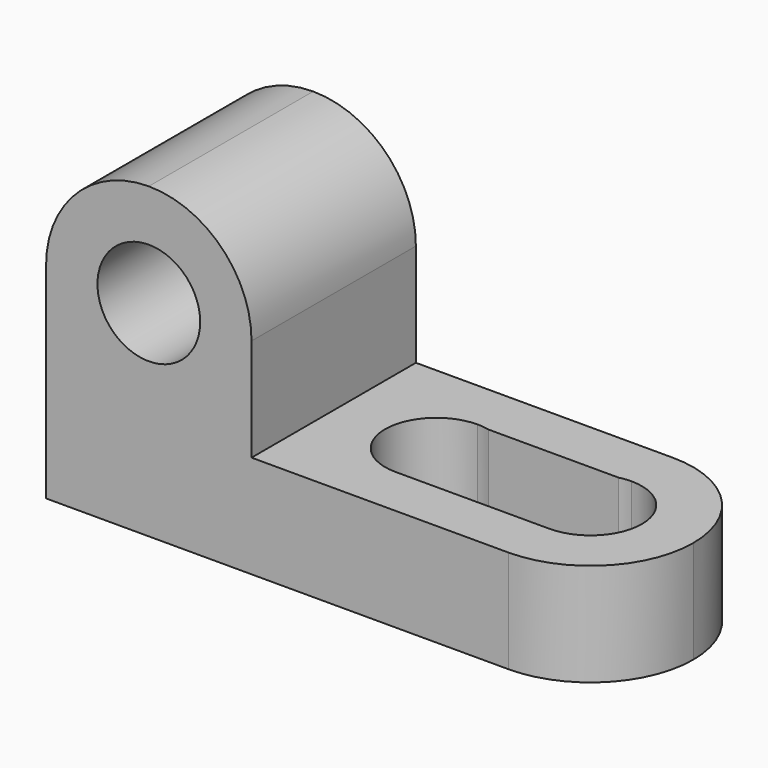
from build123d import *

# Parameters (mm, degrees)
F1_DEPTH  = 25.4
F4_DEPTH  = 25.401
F3_R      = 6.35
F5_DEPTH  = 25.401
F8_DEPTH  = 12.701
F9_DEPTH  = 12.701
F11_DEPTH = 12.701


with BuildPart() as f1:
    # F0 (on Front) → F1 (new body)
    with BuildSketch(Plane.XZ):
        Polygon((-51.3122697964, 54.3005044411), (-76.7122697964, 54.3005044411), (-76.7122697964, 16.2005044411), (-6.8622697964, 16.2005044411), (-6.8622697964, 28.9005044411), (-51.3122697964, 28.9005044411), align=None)
    extrude(amount=F1_DEPTH)

    # F2 (on face) → F4 (cut, through all)
    with BuildSketch(Plane.XZ.offset(25.4)):
        with BuildLine():
            ThreePointArc((-76.7122697964, 41.6005044411), (-72.9925259175, 50.5807605622), (-64.0122697964, 54.3005044411))
            Line((-64.0122697964, 54.3005044411), (-76.7122697964, 54.3005044411))
            Line((-76.7122697964, 54.3005044411), (-76.7122697964, 41.6005044411))
        make_face()
        with BuildLine():
            ThreePointArc((-64.0122697964, 54.3005044411), (-55.0320136754, 50.5807605622), (-51.3122697964, 41.6005044411))
            Line((-51.3122697964, 41.6005044411), (-51.3122697964, 54.3005044411))
            Line((-51.3122697964, 54.3005044411), (-64.0122697964, 54.3005044411))
        make_face()
    extrude(amount=-F4_DEPTH, mode=Mode.SUBTRACT)

    # F3 (on face) → F5 (cut, through all)
    with BuildSketch(Plane.XZ.offset(25.4)):
        with Locations((-64.0122697964, 41.6005044411)):
            Circle(F3_R)
    extrude(amount=-F5_DEPTH, mode=Mode.SUBTRACT)

    # F6 (on face) → F8 (cut, through all)
    with BuildSketch(Plane.XY.offset(28.9005044411)):
        with BuildLine():
            ThreePointArc((-38.6122697964, -19.05), (-34.1221417359, -17.1901280605), (-32.2622697964, -12.7))
            ThreePointArc((-32.2622697964, -12.7), (-34.1221417359, -8.2098719395), (-38.6122697964, -6.35))
            ThreePointArc((-38.6122697964, -6.35), (-44.9622697964, -12.7), (-38.6122697964, -19.05))
        make_face()
        with BuildLine():
            ThreePointArc((-13.2122697964, -12.7), (-15.0721417359, -8.2098719395), (-19.5622697964, -6.35))
            ThreePointArc((-19.5622697964, -6.35), (-25.9122697964, -12.7), (-19.5622697964, -19.05))
            ThreePointArc((-19.5622697964, -19.05), (-15.0721417359, -17.1901280605), (-13.2122697964, -12.7))
        make_face()
    extrude(amount=-F8_DEPTH, mode=Mode.SUBTRACT)

    # F7 (on face) → F9 (cut, through all)
    with BuildSketch(Plane.XY.offset(28.9005044411)):
        with BuildLine():
            Line((-21.0363403239, -6.5234624522), (-37.1381992689, -6.5234624522))
            ThreePointArc((-37.1381992689, -6.5234624522), (-33.6281526304, -8.7654001379), (-32.2622697964, -12.7))
            ThreePointArc((-32.2622697964, -12.7), (-34.1221417359, -17.1901280605), (-38.6122697964, -19.05))
            Line((-38.6122697964, -19.05), (-19.5622697964, -19.05))
            ThreePointArc((-19.5622697964, -19.05), (-25.8687550865, -13.4421208026), (-21.0363403239, -6.5234624522))
        make_face()
    extrude(amount=-F9_DEPTH, mode=Mode.SUBTRACT)

    # F10 (on face) → F11 (cut, through all)
    with BuildSketch(Plane.XY.offset(28.9005044411)):
        with BuildLine():
            ThreePointArc((-19.5622697964, 0), (-10.5820136754, -3.7197438789), (-6.8622697964, -12.7))
            Line((-6.8622697964, -12.7), (-6.8622697964, 0))
            Line((-6.8622697964, 0), (-19.5622697964, 0))
        make_face()
        with BuildLine():
            Line((-6.8622697964, -25.4), (-6.8622697964, -12.7))
            ThreePointArc((-6.8622697964, -12.7), (-10.5820136754, -21.6802561211), (-19.5622697964, -25.4))
            Line((-19.5622697964, -25.4), (-6.8622697964, -25.4))
        make_face()
    extrude(amount=-F11_DEPTH, mode=Mode.SUBTRACT)


solid = f1.part
